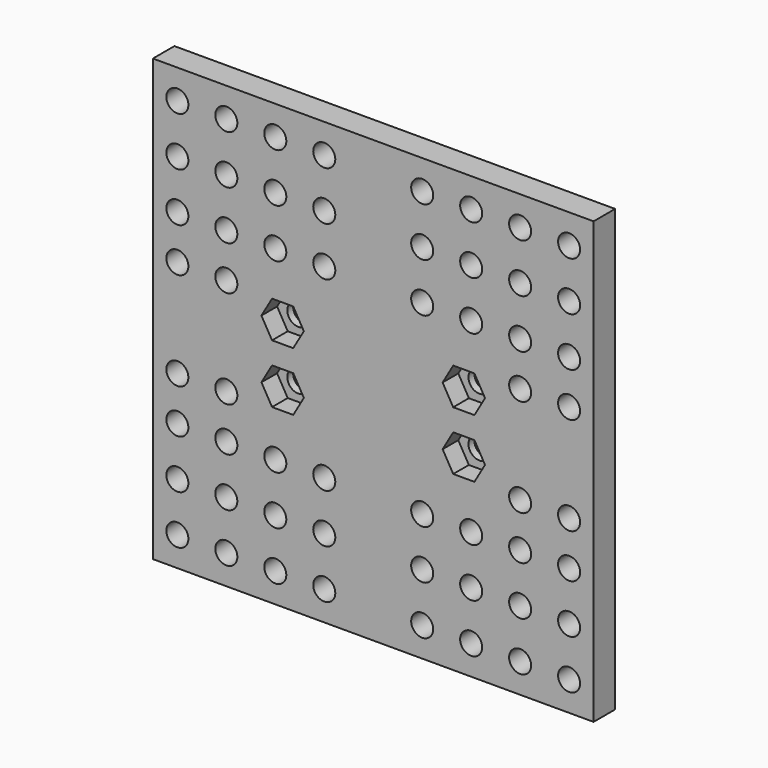
from build123d import *

# Parameters (mm, degrees)
F0_W     = 90
F0_H     = 90
F1_DEPTH = 2.75
F3_DEPTH = 4
F4_R     = 2.25
F5_DEPTH = 5.501
F7_D     = 4.5


with BuildPart() as f1:
    # F0 (on Front) → F1 (new body, symmetric)
    with BuildSketch(Plane.XZ):
        Rectangle(F0_W, F0_H)
    extrude(amount=F1_DEPTH, both=True)

    # F2 (on face) → F3 (cut)
    with BuildSketch(Plane.XZ.offset(2.75)):
        Polygon((-16.334936, 9.75), (-20.665064, 9.75), (-22.830127, 6), (-20.665064, 2.25), (-16.334936, 2.25), (-14.169873, 6), align=None)
        Polygon((-16.334936, -2.25), (-20.665064, -2.25), (-22.830127, -6), (-20.665064, -9.75), (-16.334936, -9.75), (-14.169873, -6), align=None)
        Polygon((20.665064, -2.25), (16.334936, -2.25), (14.169873, -6), (16.334936, -9.75), (20.665064, -9.75), (22.830127, -6), align=None)
        Polygon((16.334936, 2.25), (20.665064, 2.25), (22.830127, 6), (20.665064, 9.75), (16.334936, 9.75), (14.169873, 6), align=None)
    extrude(amount=-F3_DEPTH, mode=Mode.SUBTRACT)

    # F4 (on face) → F5 (cut, through all)
    with BuildSketch(Plane.XZ.offset(2.75)):
        with Locations((-18.5, 6)):
            Circle(F4_R)
        with Locations((-18.5, -6)):
            Circle(F4_R)
        with Locations((18.5, 6)):
            Circle(F4_R)
        with Locations((18.5, -6)):
            Circle(F4_R)
    extrude(amount=-F5_DEPTH, mode=Mode.SUBTRACT)

    # F7 (through all)
    with Locations(Plane.XZ.offset(2.75)):
        with Locations((-40, 39), (-30, 39), (-20, 39), (-10, 39), (10, 39), (20, 39), (30, 39), (40, 39), (40, 29), (30, 29), (20, 29), (-10, 29), (10, 29), (-30, 29), (-20, 29), (-40, 29), (30, 19), (-40, 19), (10, 19), (-10, 19), (20, 19), (-20, 19), (40, 19), (-30, 19), (30, 10), (30, -10), (40, -39), (40, 10), (30, -29), (30, -39), (40, -19), (40, -10), (30, -19), (40, -29), (-30, -10), (-40, -19), (-40, -29), (-30, -19), (-30, -39), (-30, 10), (-40, -10), (-40, -39), (-40, 10), (-30, -29), (-10, -29), (20, -39), (-10, -19), (20, -29), (10, -19), (10, -29), (-20, -19), (-20, -39), (10, -39), (-10, -39), (-20, -29), (20, -19)):
            Hole(F7_D / 2)


solid = f1.part
